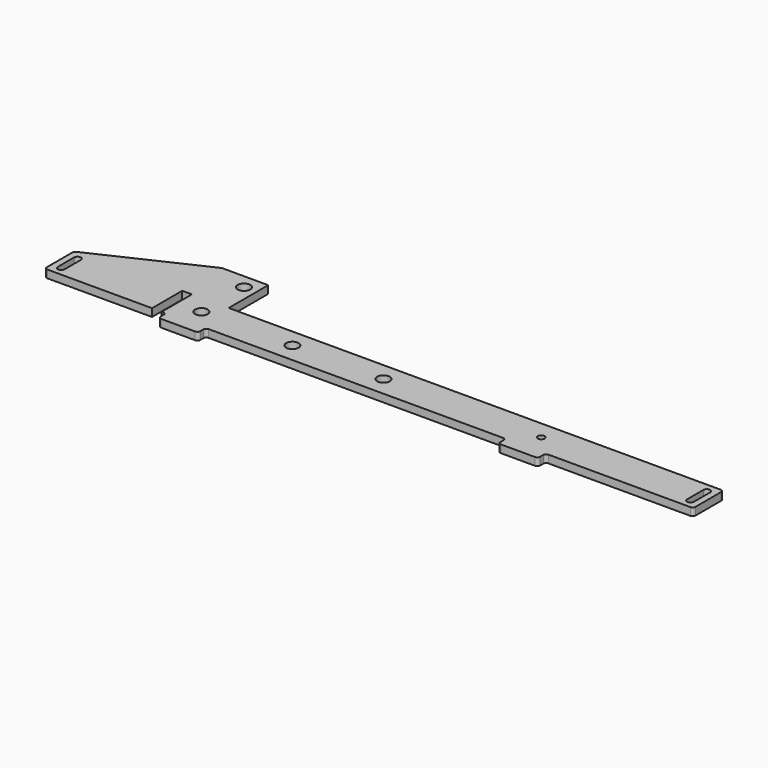
from build123d import *

# Parameters (mm, degrees)
SKETCH_R   = 6.5
SKETCH_R_2 = 3.5
PAD_DEPTH  = 8


with BuildPart() as part:
    # Sketch → Pad (new body)
    with BuildSketch(Plane.XY):
        with BuildLine():
            Line((-11, 50), (-11, -1))
            Line((-11, -1), (497, -1))
            ThreePointArc((500, -4), (499.12132, -1.87868), (497, -1))
            Line((500, -4), (500, -37))
            ThreePointArc((497, -40), (499.12132, -39.12132), (500, -37))
            Line((350.5, -40), (497, -40))
            ThreePointArc((350.5, -40), (348.37868, -40.87868), (347.5, -43))
            Line((347.5, -47), (347.5, -43))
            ThreePointArc((344.5, -50), (346.62132, -49.12132), (347.5, -47))
            Line((309.5, -50), (344.5, -50))
            ThreePointArc((306.5, -47), (307.37868, -49.12132), (309.5, -50))
            Line((306.5, -47), (306.5, -43))
            ThreePointArc((306.5, -43), (305.62132, -40.87868), (303.5, -40))
            Line((-0.5, -40), (303.5, -40))
            ThreePointArc((-0.5, -40), (-2.62132, -40.87868), (-3.5, -43))
            Line((-3.5, -47), (-3.5, -43))
            ThreePointArc((-6.5, -50), (-4.37868, -49.12132), (-3.5, -47))
            Line((-41.5, -50), (-6.5, -50))
            ThreePointArc((-44.5, -47), (-43.62132, -49.12132), (-41.5, -50))
            Line((-44.5, -43), (-44.5, -47))
            ThreePointArc((-44.5, -43), (-45.37868, -40.87868), (-47.5, -40))
            Line((-49, -40), (-47.5, -40))
            Line((-49, -1), (-49, -40))
            Line((-50, -1), (-49, -1))
            Line((-54, -1), (-50, -1))
            Line((-58, -1), (-54, -1))
            Line((-59, -1), (-58, -1))
            Line((-59, -1), (-59, -40))
            Line((-167, -40), (-59, -40))
            ThreePointArc((-170, -37), (-169.12132, -39.12132), (-167, -40))
            Line((-170, -4), (-170, -37))
            ThreePointArc((-168.27456, -1.284213), (-169.532161, -2.391224), (-170, -4))
            Line((-168.27456, -1.284213), (-59, 50))
            Line((-59, 50), (-58, 50))
            Line((-58, 50), (-54, 50))
            Line((-54, 50), (-50, 50))
            Line((-50, 50), (-49, 50))
            Line((-49, 50), (-11, 50))
        make_face()
        with Locations((-24, 35)):
            Circle(SKETCH_R, mode=Mode.SUBTRACT)
        with Locations((-24, -20)):
            Circle(SKETCH_R, mode=Mode.SUBTRACT)
        with Locations((164, -20)):
            Circle(SKETCH_R, mode=Mode.SUBTRACT)
        with Locations((70, -20)):
            Circle(SKETCH_R, mode=Mode.SUBTRACT)
        with Locations((327, -20)):
            Circle(SKETCH_R_2, mode=Mode.SUBTRACT)
        with BuildLine():
            ThreePointArc((493.5, -10), (490, -6.5), (486.5, -10))
            Line((486.5, -10), (486.5, -31))
            ThreePointArc((486.5, -31), (490, -34.5), (493.5, -31))
            Line((493.5, -10), (493.5, -31))
        make_face(mode=Mode.SUBTRACT)
        with BuildLine():
            ThreePointArc((-163.5, -31), (-160, -34.5), (-156.5, -31))
            Line((-156.5, -31), (-156.5, -10))
            ThreePointArc((-156.5, -10), (-160, -6.5), (-163.5, -10))
            Line((-163.5, -31), (-163.5, -10))
        make_face(mode=Mode.SUBTRACT)
    extrude(amount=PAD_DEPTH)


solid = part.part
